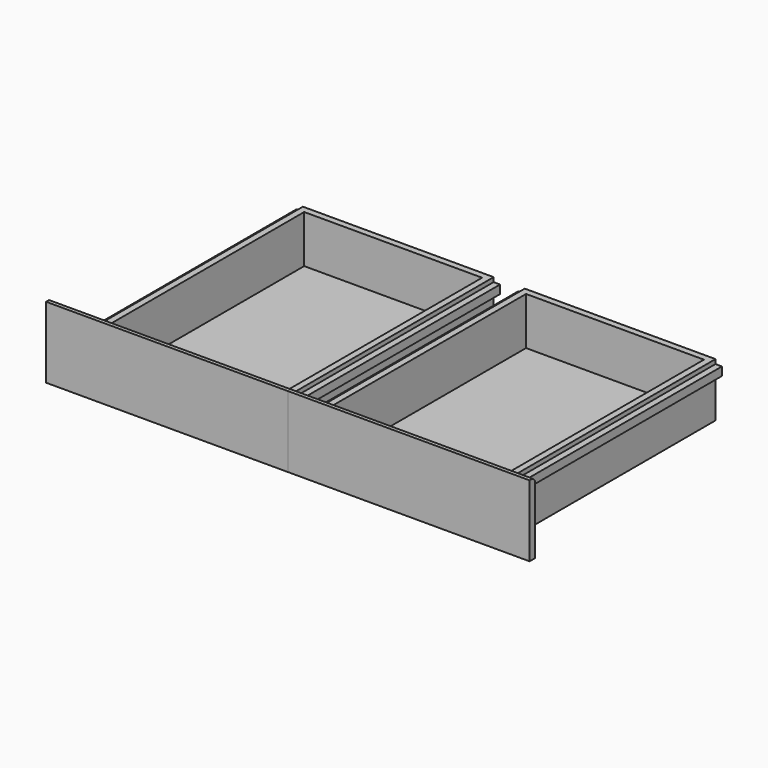
from build123d import *

# Parameters (mm, degrees)
F0_W     = 564.628
F0_H     = 160
F1_DEPTH = 800
F2_T     = -19
F3_W     = 19
F3_H     = 25
F4_DEPTH = 800
F6_W     = 715.628
F6_H     = 211
F7_DEPTH = 19
F9_SIZE  = 8


with BuildPart() as f1:
    # F0 (on Front) → F1 (new body)
    with BuildSketch(Plane.XZ):
        with Locations((282.314, 80)):
            Rectangle(F0_W, F0_H)
    extrude(amount=F1_DEPTH)

    # F2
    f2_openings = [f1.faces().sort_by_distance(p)[0] for p in [
        (282.314, -400, 160),
    ]]
    offset(amount=F2_T, openings=f2_openings)


with BuildPart() as f4:
    # F3 (on face) → F4 (new body)
    with BuildSketch(Plane.XZ.offset(800)):
        with Locations((-9.5, 134.5)):
            Rectangle(F3_W, F3_H)
        with Locations((574.128, 134.5)):
            Rectangle(F3_W, F3_H)
    extrude(amount=-F4_DEPTH)


with BuildPart() as f1_1:
    add(f1.part)

    # F5: union F4
    add(f4.part)

    # F6 (on face) → F7 (join)
    with BuildSketch(Plane.XZ.offset(800)):
        with Locations((311.814, 105.5)):
            Rectangle(F6_W, F6_H)
    extrude(amount=F7_DEPTH)

    # F9
    f9_edges = [f1_1.edges().sort_by_distance(p)[0] for p in [
        (311.814, -800, 211),
    ]]
    chamfer(f9_edges, length=F9_SIZE)


with BuildPart() as f10_1:
    # F10: instance of F1
    add(f1_1.part.mirror(Plane(origin=(-46, -809.554983, 104.672576), x_dir=(0, -1, 0), z_dir=(-1, 0, 0))))


solid = Compound([f1_1.part, f10_1.part])
